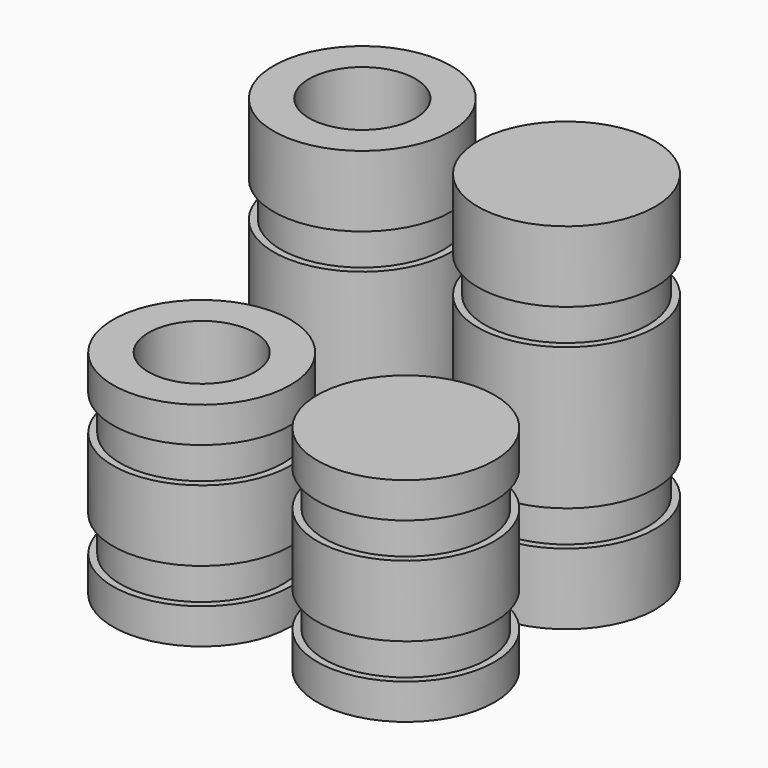
from build123d import *

# Parameters (mm, degrees)
F0_R     = 12.5
F0_R_2   = 11.5
F0_R_3   = 7.5
F1_DEPTH = 50
F2_DEPTH = 30
F3_START = 10
F3_DEPTH = 5
F4_START = 35
F4_DEPTH = 5
F5_START = 5
F5_DEPTH = 5
F6_START = 20
F6_DEPTH = 5


with BuildPart() as f1:
    # F0 (on Top) → F1 (new body)
    with BuildSketch(Plane.XY):
        with Locations((14.3898613751, 14.1501259059)):
            Circle(F0_R)
        with Locations((14.3898613751, 14.1501259059)):
            Circle(F0_R_2, mode=Mode.SUBTRACT)
        with Locations((14.3898613751, 14.1501259059)):
            Circle(F0_R_2)
        with Locations((14.3898613751, 14.1501259059)):
            Circle(F0_R_3, mode=Mode.SUBTRACT)
        with Locations((14.3898613751, 14.1501259059)):
            Circle(F0_R_3)
    extrude(amount=F1_DEPTH)


with BuildPart() as f1b:
    # F0 (on Top) → F1, piece 2 (new body)
    with BuildSketch(Plane.XY):
        with Locations((-14.3898613751, 14.1501259059)):
            Circle(F0_R)
        with Locations((-14.3898613751, 14.1501259059)):
            Circle(F0_R_2, mode=Mode.SUBTRACT)
        with Locations((-14.3898613751, 14.1501259059)):
            Circle(F0_R_2)
        with Locations((-14.3898613751, 14.1501259059)):
            Circle(F0_R_3, mode=Mode.SUBTRACT)
    extrude(amount=F1_DEPTH)


with BuildPart() as f2:
    # F0 (on Top) → F2 (new body)
    with BuildSketch(Plane.XY):
        with Locations((14.3898613751, -14.1501259059)):
            Circle(F0_R)
        with Locations((14.3898613751, -14.1501259059)):
            Circle(F0_R_2, mode=Mode.SUBTRACT)
        with Locations((14.3898613751, -14.1501259059)):
            Circle(F0_R_2)
        with Locations((14.3898613751, -14.1501259059)):
            Circle(F0_R_3, mode=Mode.SUBTRACT)
        with Locations((14.3898613751, -14.1501259059)):
            Circle(F0_R_3)
    extrude(amount=F2_DEPTH)


with BuildPart() as f2b:
    # F0 (on Top) → F2, piece 2 (new body)
    with BuildSketch(Plane.XY):
        with Locations((-14.3898613751, -14.1501259059)):
            Circle(F0_R)
        with Locations((-14.3898613751, -14.1501259059)):
            Circle(F0_R_2, mode=Mode.SUBTRACT)
        with Locations((-14.3898613751, -14.1501259059)):
            Circle(F0_R_2)
        with Locations((-14.3898613751, -14.1501259059)):
            Circle(F0_R_3, mode=Mode.SUBTRACT)
    extrude(amount=F2_DEPTH)


with BuildPart() as f3_tool:
    # F0 (on Top) → F3 (new body)
    with BuildSketch(Plane.XY.offset(F3_START)):
        with Locations((-14.3898613751, 14.1501259059)):
            Circle(F0_R)
        with Locations((-14.3898613751, 14.1501259059)):
            Circle(F0_R_2, mode=Mode.SUBTRACT)
        with Locations((14.3898613751, 14.1501259059)):
            Circle(F0_R)
        with Locations((14.3898613751, 14.1501259059)):
            Circle(F0_R_2, mode=Mode.SUBTRACT)
    extrude(amount=F3_DEPTH)


with BuildPart() as f1_1:
    add(f1.part)

    # F3: cut by f3_tool
    add(f3_tool.part, mode=Mode.SUBTRACT)


with BuildPart() as f1b_1:
    add(f1b.part)

    # F3: cut by f3_tool
    add(f3_tool.part, mode=Mode.SUBTRACT)


with BuildPart() as f4_tool:
    # F0 (on Top) → F4 (new body)
    with BuildSketch(Plane.XY.offset(F4_START)):
        with Locations((-14.3898613751, 14.1501259059)):
            Circle(F0_R)
        with Locations((-14.3898613751, 14.1501259059)):
            Circle(F0_R_2, mode=Mode.SUBTRACT)
        with Locations((14.3898613751, 14.1501259059)):
            Circle(F0_R)
        with Locations((14.3898613751, 14.1501259059)):
            Circle(F0_R_2, mode=Mode.SUBTRACT)
    extrude(amount=F4_DEPTH)


with BuildPart() as f1_2:
    add(f1_1.part)

    # F4: cut by f4_tool
    add(f4_tool.part, mode=Mode.SUBTRACT)


with BuildPart() as f1b_2:
    add(f1b_1.part)

    # F4: cut by f4_tool
    add(f4_tool.part, mode=Mode.SUBTRACT)


with BuildPart() as f5_tool:
    # F0 (on Top) → F5 (new body)
    with BuildSketch(Plane.XY.offset(F5_START)):
        with Locations((-14.3898613751, -14.1501259059)):
            Circle(F0_R)
        with Locations((-14.3898613751, -14.1501259059)):
            Circle(F0_R_2, mode=Mode.SUBTRACT)
        with Locations((14.3898613751, -14.1501259059)):
            Circle(F0_R)
        with Locations((14.3898613751, -14.1501259059)):
            Circle(F0_R_2, mode=Mode.SUBTRACT)
    extrude(amount=F5_DEPTH)


with BuildPart() as f2_1:
    add(f2.part)

    # F5: cut by f5_tool
    add(f5_tool.part, mode=Mode.SUBTRACT)


with BuildPart() as f2b_1:
    add(f2b.part)

    # F5: cut by f5_tool
    add(f5_tool.part, mode=Mode.SUBTRACT)


with BuildPart() as f6_tool:
    # F0 (on Top) → F6 (new body)
    with BuildSketch(Plane.XY.offset(F6_START)):
        with Locations((-14.3898613751, -14.1501259059)):
            Circle(F0_R)
        with Locations((-14.3898613751, -14.1501259059)):
            Circle(F0_R_2, mode=Mode.SUBTRACT)
        with Locations((14.3898613751, -14.1501259059)):
            Circle(F0_R)
        with Locations((14.3898613751, -14.1501259059)):
            Circle(F0_R_2, mode=Mode.SUBTRACT)
    extrude(amount=F6_DEPTH)


with BuildPart() as f2_2:
    add(f2_1.part)

    # F6: cut by f6_tool
    add(f6_tool.part, mode=Mode.SUBTRACT)


with BuildPart() as f2b_2:
    add(f2b_1.part)

    # F6: cut by f6_tool
    add(f6_tool.part, mode=Mode.SUBTRACT)


solid = Compound([f1_2.part, f1b_2.part, f2_2.part, f2b_2.part])
